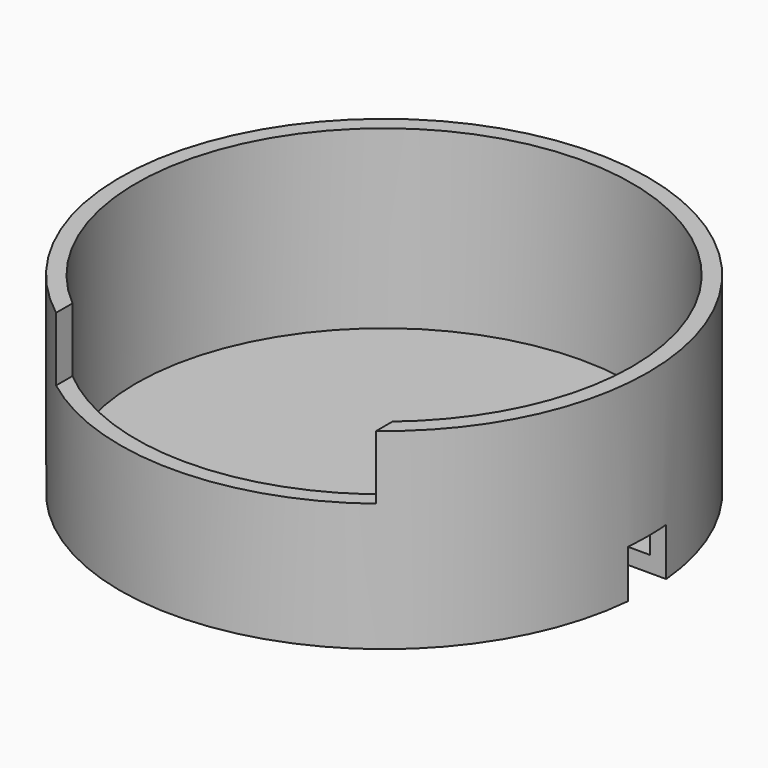
from build123d import *

# Parameters (mm, degrees)
SKETCH003_R     = 8.25
PAD_DEPTH       = 6
THICKNESS_T     = -0.5
SKETCH004_W     = 10
SKETCH004_H     = 9.446465
POCKET_DEPTH    = 2
SKETCH005_W     = 1.5
SKETCH005_H     = 1.5
POCKET001_DEPTH = 1.5
SKETCH006_W     = 0.5
SKETCH006_H     = 1.5
PAD001_DEPTH    = 1.5
SKETCH007_W     = 1.5
SKETCH007_H     = 0.5
PAD002_DEPTH    = 1.75


with BuildPart() as part:
    # Sketch003 → Pad (new body)
    with BuildSketch(Plane.XY):
        Circle(SKETCH003_R)
    extrude(amount=PAD_DEPTH)

    # Thickness
    thickness_openings = [part.faces().sort_by_distance(p)[0] for p in [
        (0, 0, 6),
    ]]
    offset(amount=THICKNESS_T, openings=thickness_openings)

    # Sketch004 (on DatumPlane) → Pocket (cut)
    with BuildSketch(Plane.XY.offset(6)):
        with Locations((0, -4.723232)):
            Rectangle(SKETCH004_W, SKETCH004_H)
    extrude(amount=-POCKET_DEPTH, mode=Mode.SUBTRACT)

    # Sketch005 (on DatumPlane) → Pocket001 (cut)
    with BuildSketch(Plane.YZ.offset(8.25)):
        with Locations((0, 0.75)):
            Rectangle(SKETCH005_W, SKETCH005_H)
    extrude(amount=-POCKET001_DEPTH, mode=Mode.SUBTRACT)

    # Sketch006 (on DatumPlane) → Pad001 (join)
    with BuildSketch(Plane.XY.offset(0.5)):
        with Locations((6.5, 0)):
            Rectangle(SKETCH006_W, SKETCH006_H)
    extrude(amount=PAD001_DEPTH)

    # Sketch007 (on DatumPlane) → Pad002 (join)
    with BuildSketch(Plane.YZ.offset(6.25)):
        with Locations((0, 1.75)):
            Rectangle(SKETCH007_W, SKETCH007_H)
    extrude(amount=PAD002_DEPTH)


solid = part.part
